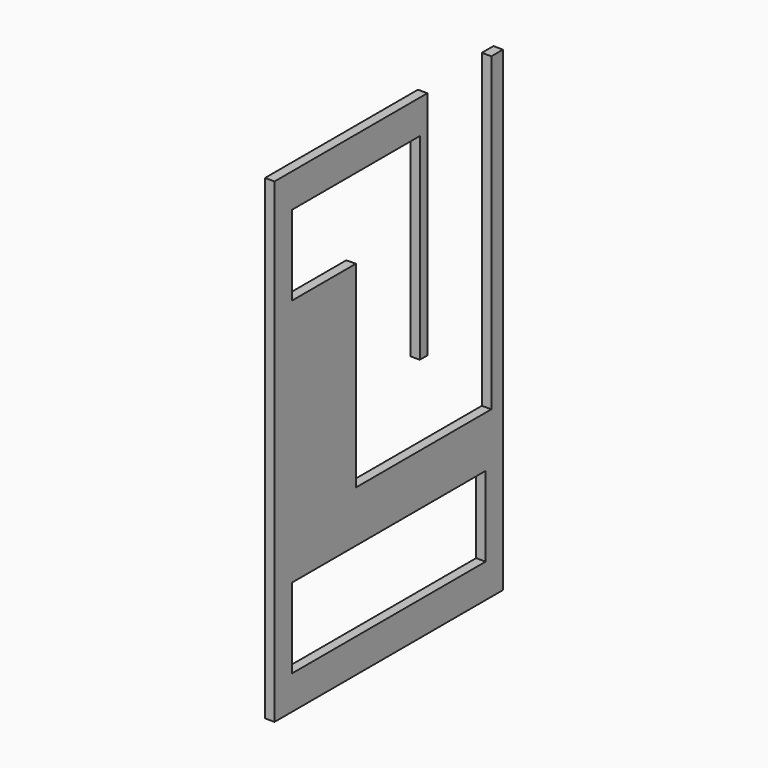
from build123d import *

# Parameters (mm, degrees)
F0_W     = 63.619988
F0_H     = 21
F1_DEPTH = 2.5


with BuildPart() as f1:
    # F0 (on Right) → F1 (new body)
    with BuildSketch(Plane.YZ):
        Polygon((0, 125), (0, 0), (75, 0), (75, 125), (71.19, 125), (71.19, 43.36109), (71.19, 3.81), (3.81, 3.81), (3.81, 121.19), (44.505585, 121.19), (47.69, 121.19), (50.19, 121.19), (50.19, 125), (44.505585, 125), align=None)
        Polygon((71.19, 3.81), (71.19, 43.36109), (26.69, 43.36109), (26.69, 95.11), (5.69, 95.11), (5.69, 116.11), (47.69, 116.11), (47.69, 121.19), (44.505585, 121.19), (3.81, 121.19), (3.81, 3.81), align=None)
        with Locations((37.5, 19.39)):
            Rectangle(F0_W, F0_H, mode=Mode.SUBTRACT)
        Polygon((50.19, 64.36109), (50.19, 121.19), (47.69, 121.19), (47.69, 116.11), (47.69, 64.36109), align=None)
    extrude(amount=F1_DEPTH)


solid = f1.part
